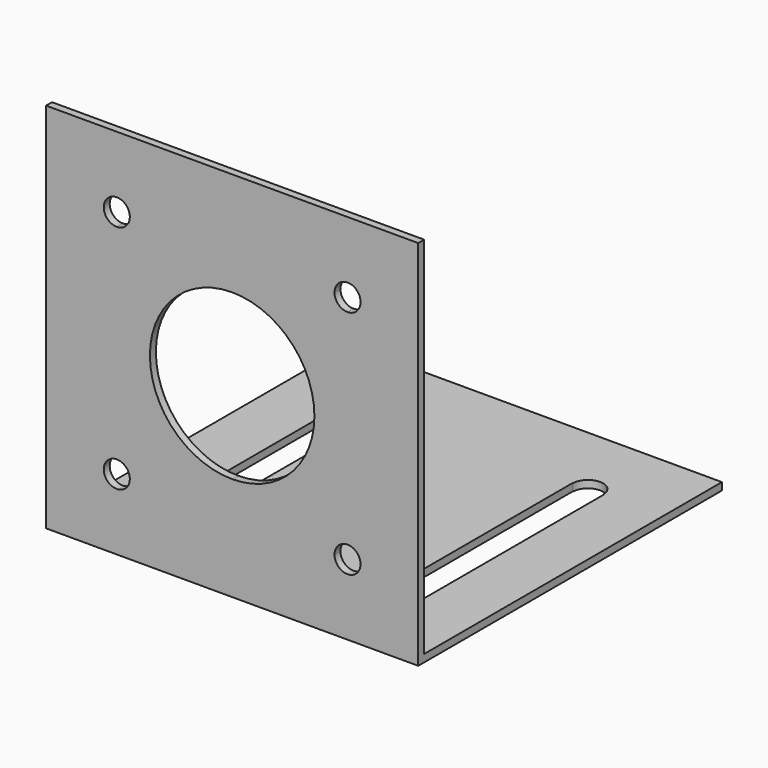
from build123d import *

# Parameters (mm, degrees)
F0_W     = 50
F0_H     = 50
F1_DEPTH = 1
F2_W     = 50
F2_H     = 50
F3_DEPTH = 1
F5_DEPTH = 1
F7_DEPTH = 1


with BuildPart() as f1:
    # F0 (on Top) → F1 (new body)
    with BuildSketch(Plane.XY):
        Rectangle(F0_W, F0_H)
    extrude(amount=F1_DEPTH)

    # F2 (on face) → F3 (join)
    with BuildSketch(Plane.XZ.offset(25)):
        with Locations((0, 25)):
            Rectangle(F2_W, F2_H)
    extrude(amount=F3_DEPTH)

    # F4 (on face) → F5 (cut)
    with BuildSketch(Plane.XZ.offset(26)):
        with BuildLine():
            Line((15.5, 40.5), (13.75, 40.5))
            ThreePointArc((13.75, 40.5), (14.2625631329, 39.2625631329), (15.5, 38.75))
            Line((15.5, 38.75), (15.5, 40.5))
        make_face()
        with BuildLine():
            ThreePointArc((17.25, 40.5), (15.5, 42.25), (13.75, 40.5))
            Line((13.75, 40.5), (15.5, 40.5))
            Line((15.5, 40.5), (15.5, 38.75))
            ThreePointArc((15.5, 38.75), (16.7374368671, 39.2625631329), (17.25, 40.5))
        make_face()
        with BuildLine():
            ThreePointArc((-15.5, 38.75), (-14.2625631329, 39.2625631329), (-13.75, 40.5))
            Line((-13.75, 40.5), (-15.5, 40.5))
            Line((-15.5, 40.5), (-15.5, 38.75))
        make_face()
        with BuildLine():
            Line((-15.5, 40.5), (-13.75, 40.5))
            ThreePointArc((-13.75, 40.5), (-16.7374368671, 41.7374368671), (-15.5, 38.75))
            Line((-15.5, 38.75), (-15.5, 40.5))
        make_face()
        with BuildLine():
            Line((15.5, 9.5), (15.5, 11.25))
            ThreePointArc((15.5, 11.25), (14.2625631329, 10.7374368671), (13.75, 9.5))
            Line((13.75, 9.5), (15.5, 9.5))
        make_face()
        with BuildLine():
            ThreePointArc((17.25, 9.5), (16.7374368671, 10.7374368671), (15.5, 11.25))
            Line((15.5, 11.25), (15.5, 9.5))
            Line((15.5, 9.5), (13.75, 9.5))
            ThreePointArc((13.75, 9.5), (15.5, 7.75), (17.25, 9.5))
        make_face()
        with BuildLine():
            ThreePointArc((-13.75, 9.5), (-14.2625631329, 10.7374368671), (-15.5, 11.25))
            Line((-15.5, 11.25), (-15.5, 9.5))
            Line((-15.5, 9.5), (-13.75, 9.5))
        make_face()
        with BuildLine():
            Line((-15.5, 9.5), (-15.5, 11.25))
            ThreePointArc((-15.5, 11.25), (-16.7374368671, 8.2625631329), (-13.75, 9.5))
            Line((-13.75, 9.5), (-15.5, 9.5))
        make_face()
        with BuildLine():
            Line((0, 13.95), (0, 36.05))
            ThreePointArc((0, 36.05), (-11.05, 25), (0, 13.95))
        make_face()
        with BuildLine():
            ThreePointArc((11.05, 25), (7.8135299321, 32.8135299321), (0, 36.05))
            Line((0, 36.05), (0, 13.95))
            ThreePointArc((0, 13.95), (7.8135299321, 17.1864700679), (11.05, 25))
        make_face()
    extrude(amount=-F5_DEPTH, mode=Mode.SUBTRACT)

    # F6 (on face) → F7 (cut)
    with BuildSketch(Plane.XY.offset(1)):
        with BuildLine():
            Line((-15, 12.95), (-15, 15))
            Line((-15, 15), (-17.05, 15))
            ThreePointArc((-17.05, 15), (-16.4495689014, 13.5504310986), (-15, 12.95))
        make_face()
        with BuildLine():
            Line((-12.95, 15), (-15, 15))
            Line((-15, 15), (-15, 12.95))
            ThreePointArc((-15, 12.95), (-13.5504310986, 13.5504310986), (-12.95, 15))
        make_face()
        with BuildLine():
            Line((-15, -15), (-15, -12.95))
            ThreePointArc((-15, -12.95), (-16.4495689014, -13.5504310986), (-17.05, -15))
            Line((-17.05, -15), (-15, -15))
        make_face()
        with BuildLine():
            ThreePointArc((-12.95, -15), (-13.5504310986, -13.5504310986), (-15, -12.95))
            Line((-15, -12.95), (-15, -15))
            Line((-15, -15), (-12.95, -15))
        make_face()
        with BuildLine():
            Line((15, 15), (12.95, 15))
            ThreePointArc((12.95, 15), (13.5504310986, 13.5504310986), (15, 12.95))
            Line((15, 12.95), (15, 15))
        make_face()
        with BuildLine():
            Line((17.05, 15), (15, 15))
            Line((15, 15), (15, 12.95))
            ThreePointArc((15, 12.95), (16.4495689014, 13.5504310986), (17.05, 15))
        make_face()
        with BuildLine():
            ThreePointArc((15, -12.95), (13.5504310986, -13.5504310986), (12.95, -15))
            Line((12.95, -15), (15, -15))
            Line((15, -15), (15, -12.95))
        make_face()
        with BuildLine():
            ThreePointArc((17.05, -15), (16.4495689014, -13.5504310986), (15, -12.95))
            Line((15, -12.95), (15, -15))
            Line((15, -15), (17.05, -15))
        make_face()
        with BuildLine():
            ThreePointArc((17.05, 15), (15, 17.05), (12.95, 15))
            Line((12.95, 15), (15, 15))
            Line((15, 15), (17.05, 15))
        make_face()
        with BuildLine():
            Line((15, -15), (12.95, -15))
            ThreePointArc((12.95, -15), (15, -17.05), (17.05, -15))
            Line((17.05, -15), (15, -15))
        make_face()
        with BuildLine():
            Line((-17.05, 15), (-15, 15))
            Line((-15, 15), (-12.95, 15))
            ThreePointArc((-12.95, 15), (-15, 17.05), (-17.05, 15))
        make_face()
        with BuildLine():
            Line((-12.95, -15), (-15, -15))
            Line((-15, -15), (-17.05, -15))
            ThreePointArc((-17.05, -15), (-15, -17.05), (-12.95, -15))
        make_face()
        with BuildLine():
            Line((-15, -12.95), (-15, 12.95))
            ThreePointArc((-15, 12.95), (-16.4495689014, 13.5504310986), (-17.05, 15))
            Line((-17.05, 15), (-17.1, 15))
            Line((-17.1, 15), (-17.1, -15))
            Line((-17.1, -15), (-17.05, -15))
            ThreePointArc((-17.05, -15), (-16.4495689014, -13.5504310986), (-15, -12.95))
        make_face()
        with BuildLine():
            Line((17.1, 15), (17.05, 15))
            ThreePointArc((17.05, 15), (16.4495689014, 13.5504310986), (15, 12.95))
            Line((15, 12.95), (15, -12.95))
            ThreePointArc((15, -12.95), (16.4495689014, -13.5504310986), (17.05, -15))
            Line((17.05, -15), (17.1, -15))
            Line((17.1, -15), (17.1, 15))
        make_face()
        with BuildLine():
            Line((-12.9, 15), (-12.95, 15))
            ThreePointArc((-12.95, 15), (-13.5504310986, 13.5504310986), (-15, 12.95))
            Line((-15, 12.95), (-15, -12.95))
            ThreePointArc((-15, -12.95), (-13.5504310986, -13.5504310986), (-12.95, -15))
            Line((-12.95, -15), (-12.9, -15))
            Line((-12.9, -15), (-12.9, 15))
        make_face()
        with BuildLine():
            Line((12.95, 15), (12.9, 15))
            Line((12.9, 15), (12.9, -15))
            Line((12.9, -15), (12.95, -15))
            ThreePointArc((12.95, -15), (13.5504310986, -13.5504310986), (15, -12.95))
            Line((15, -12.95), (15, 12.95))
            ThreePointArc((15, 12.95), (13.5504310986, 13.5504310986), (12.95, 15))
        make_face()
    extrude(amount=-F7_DEPTH, mode=Mode.SUBTRACT)


solid = f1.part
